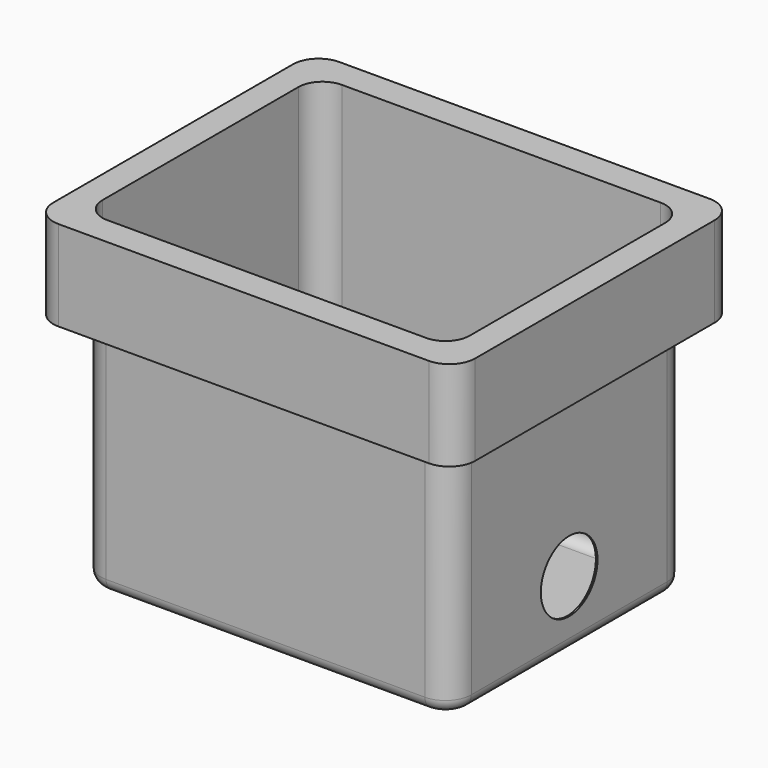
from build123d import *

# Parameters (mm, degrees)
F0_W     = 365.125
F0_H     = 292.1
F1_DEPTH = 323.85
F2_R     = 25.4
F3_R     = 12.7
F4_T     = -1.5875
F5_R     = 34.925
F6_DEPTH = 365.126
F7_W     = 415.925
F7_H     = 346.075
F8_DEPTH = 88.9
F9_R     = 25.4


with BuildPart() as f1:
    # F0 (on Top) → F1 (new body)
    with BuildSketch(Plane.XY):
        Rectangle(F0_W, F0_H)
    extrude(amount=F1_DEPTH)

    # F2
    f2_edges = [f1.edges().sort_by_distance(p)[0] for p in [
        (-182.5625, -146.05, 161.925),
        (182.5625, -146.05, 161.925),
        (182.5625, 146.05, 161.925),
        (-182.5625, 146.05, 161.925),
    ]]
    fillet(f2_edges, radius=F2_R)

    # F3
    f3_edges = [f1.edges().sort_by_distance(p)[0] for p in [
        (0, -146.05, 0),
    ]]
    fillet(f3_edges, radius=F3_R)

    # F4
    f4_openings = [f1.faces().sort_by_distance(p)[0] for p in [
        (0, 0, 323.85),
    ]]
    offset(amount=F4_T, openings=f4_openings)

    # F5 (on face) → F6 (cut, through all)
    with BuildSketch(Plane.YZ.offset(182.5625)):
        with Locations((0, 66.675)):
            Circle(F5_R)
    extrude(amount=-F6_DEPTH, mode=Mode.SUBTRACT)

    # F7 (on face) → F8 (join)
    with BuildSketch(Plane.XY.offset(323.85)):
        Rectangle(F7_W, F7_H)
        with BuildLine():
            Line((-182.5625, -120.65), (-182.5625, 120.65))
            ThreePointArc((-182.5625, 120.65), (-175.123012, 138.610512), (-157.1625, 146.05))
            Line((-157.1625, 146.05), (157.1625, 146.05))
            ThreePointArc((157.1625, 146.05), (175.123012, 138.610512), (182.5625, 120.65))
            Line((182.5625, 120.65), (182.5625, -120.65))
            ThreePointArc((182.5625, -120.65), (175.123012, -138.610512), (157.1625, -146.05))
            Line((157.1625, -146.05), (-157.1625, -146.05))
            ThreePointArc((-157.1625, -146.05), (-175.123012, -138.610512), (-182.5625, -120.65))
        make_face(mode=Mode.SUBTRACT)
    extrude(amount=-F8_DEPTH)

    # F9
    f9_edges = [f1.edges().sort_by_distance(p)[0] for p in [
        (-207.9625, -173.0375, 279.4),
        (207.9625, -173.0375, 279.4),
        (207.9625, 173.0375, 279.4),
        (-207.9625, 173.0375, 279.4),
    ]]
    fillet(f9_edges, radius=F9_R)


solid = f1.part
